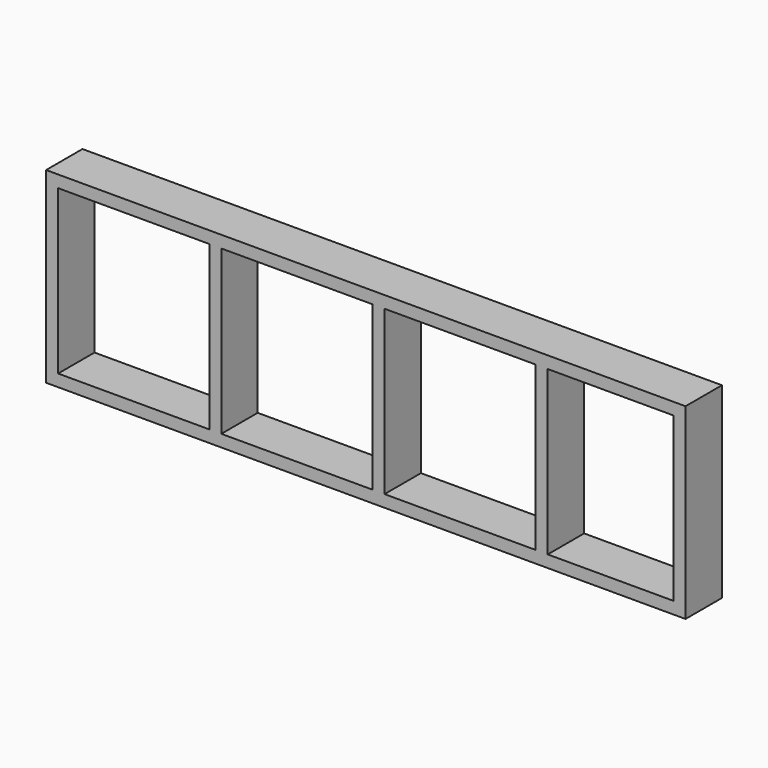
from build123d import *

# Parameters (mm, degrees)
F0_W     = 565
F0_H     = 610
F0_W_2   = 470
F1_DEPTH = 170


with BuildPart() as f1:
    # F0 (on Front) → F1 (new body)
    with BuildSketch(Plane.XZ):
        Polygon((-2390, 0), (0, 0), (0, 700), (-2390, 700), (-2390, 45), align=None)
        with Locations((-2062.5, 350)):
            Rectangle(F0_W, F0_H, mode=Mode.SUBTRACT)
        with Locations((-1452.5, 350)):
            Rectangle(F0_W, F0_H, mode=Mode.SUBTRACT)
        with Locations((-842.5, 350)):
            Rectangle(F0_W, F0_H, mode=Mode.SUBTRACT)
        with Locations((-280, 350)):
            Rectangle(F0_W_2, F0_H, mode=Mode.SUBTRACT)
    extrude(amount=F1_DEPTH)


solid = f1.part
